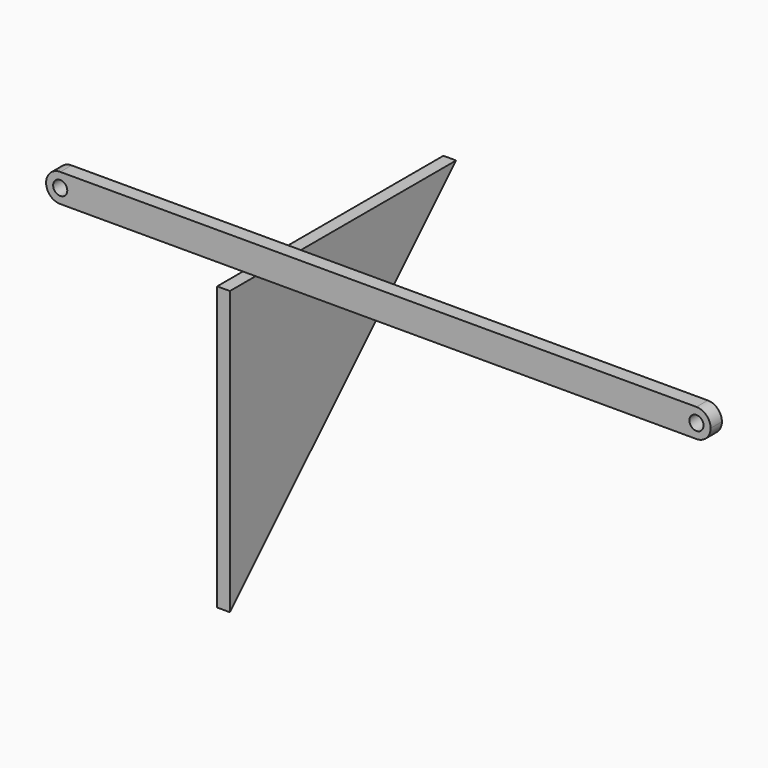
from build123d import *

# Parameters (mm, degrees)
F1_DEPTH = 0.9
F2_R     = 1
F3_DEPTH = 2


with BuildPart() as f1:
    # F0 (on Right) → F1 (new body, symmetric)
    with BuildSketch(Plane.YZ):
        Polygon((40, 0), (0, 0), (0, -40), align=None)
    extrude(amount=F1_DEPTH, both=True)


with BuildPart() as f3:
    # F2 (on Front) → F3 (new body)
    with BuildSketch(Plane.XZ):
        with BuildLine():
            Line((23.5, 4.366741), (23.5, 8.366741))
            Line((23.5, 8.366741), (-21.5, 8.366741))
            ThreePointArc((-21.5, 8.366741), (-22.914214, 7.780955), (-23.5, 6.366741))
            ThreePointArc((-23.5, 6.366741), (-22.914214, 4.952528), (-21.5, 4.366741))
            Line((-21.5, 4.366741), (23.5, 4.366741))
        make_face()
        with Locations((-21.5, 6.366741)):
            Circle(F2_R, mode=Mode.SUBTRACT)
    extrude(amount=F3_DEPTH)

    # F4: F3 across face


with BuildPart() as f3_1:
    add(f3.part)
    add(f3.part.mirror(Plane(origin=(23.5, -1, 6.366741), x_dir=(0, 1, 0), z_dir=(1, 0, 0))))


solid = Compound([f1.part, f3_1.part])
